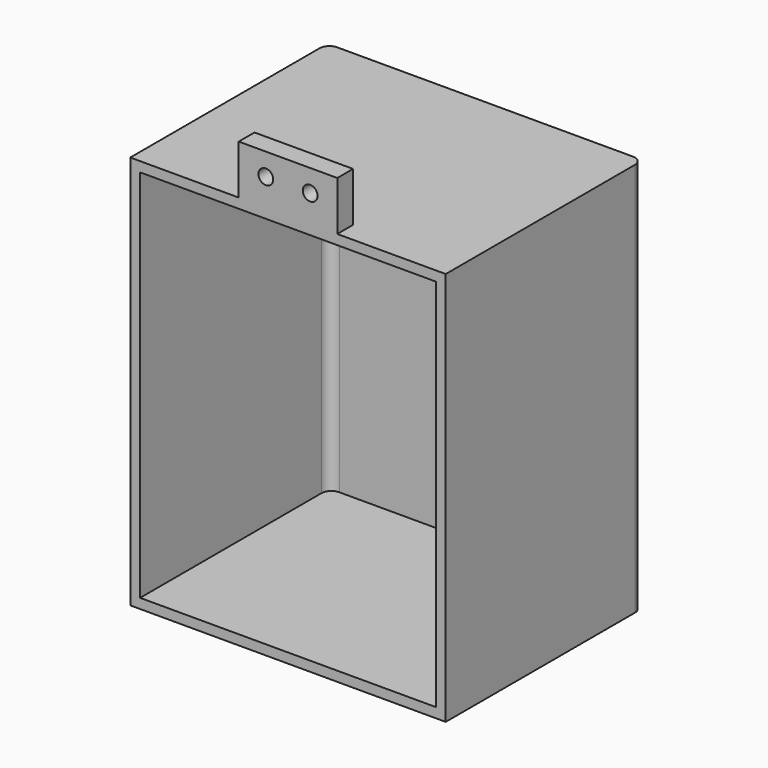
from build123d import *

# Parameters (mm, degrees)
F0_W     = 203.2
F0_H     = 254
F0_W_2   = 190.5
F0_H_2   = 241.3
F1_DEPTH = 152.4
F2_W     = 203.2
F2_H     = 254
F3_DEPTH = 6.35
F4_R     = 6.35
F5_W     = 63.5
F5_H     = 38.1
F5_R     = 4.7625
F6_DEPTH = 12.7


with BuildPart() as f1:
    # F0 (on Front) → F1 (new body)
    with BuildSketch(Plane.XZ):
        Rectangle(F0_W, F0_H)
        Rectangle(F0_W_2, F0_H_2, mode=Mode.SUBTRACT)
    extrude(amount=F1_DEPTH)

    # F2 (on face) → F3 (join)
    with BuildSketch(Plane(origin=(0, 0, 0), x_dir=(-1, 0, 0), z_dir=(0, 1, 0))):
        Rectangle(F2_W, F2_H)
    extrude(amount=F3_DEPTH)

    # F4
    f4_edges = [f1.edges().sort_by_distance(p)[0] for p in [
        (-95.25, 0, 0),
        (95.25, 0, 0),
        (-101.6, 6.35, 0),
        (101.6, 6.35, 0),
    ]]
    fillet(f4_edges, radius=F4_R)

    # F5 (on face) → F6 (join)
    with BuildSketch(Plane.XZ.offset(152.4)):
        with Locations((0, 139.7)):
            Rectangle(F5_W, F5_H)
        with Locations((-14.2875, 144.4625)):
            Circle(F5_R, mode=Mode.SUBTRACT)
        with Locations((14.2875, 144.4625)):
            Circle(F5_R, mode=Mode.SUBTRACT)
    extrude(amount=-F6_DEPTH)


solid = f1.part
